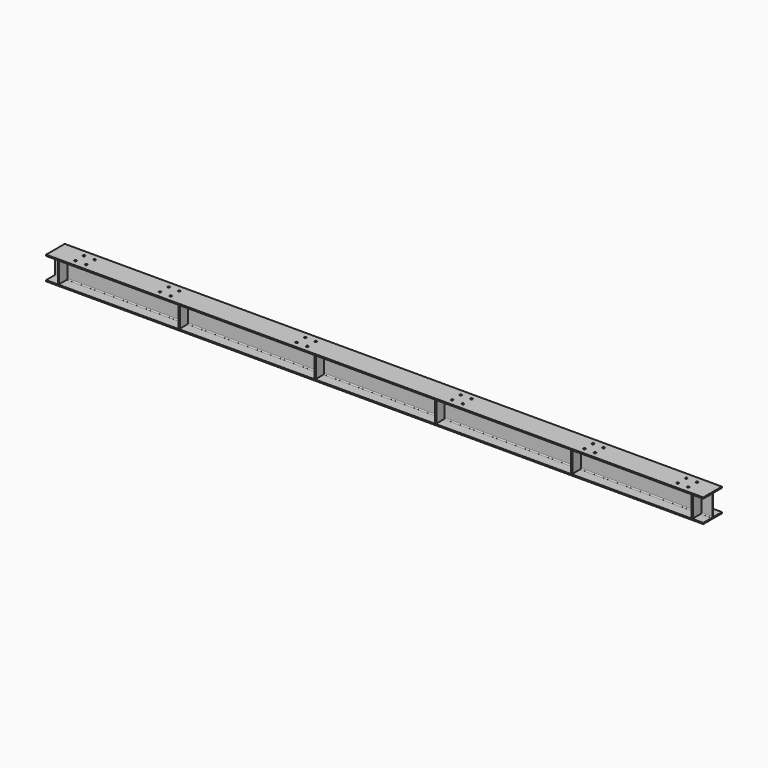
from build123d import *

# Parameters (mm, degrees)
F1_DEPTH = 4292.6
F2_W     = 19.05
F2_H     = 277.114
F3_DEPTH = 139.7
F5_D     = 28.575
F5_DEPTH = 50.8


with BuildPart() as f1:
    # F0 (on Right) → F1 (new body, symmetric)
    with BuildSketch(Plane.YZ):
        with BuildLine():
            Line((152.4, 153.924), (-152.4, 153.924))
            Line((-152.4, 153.924), (-152.4, 138.557))
            Line((-152.4, 138.557), (-17.653, 138.557))
            ThreePointArc((-17.653, 138.557), (-8.672744, 134.837256), (-4.953, 125.857))
            Line((-4.953, 125.857), (-4.953, -125.857))
            ThreePointArc((-4.953, -125.857), (-8.672744, -134.837256), (-17.653, -138.557))
            Line((-17.653, -138.557), (-152.4, -138.557))
            Line((-152.4, -138.557), (-152.4, -153.924))
            Line((-152.4, -153.924), (-4.953, -153.924))
            Line((-4.953, -153.924), (4.953, -153.924))
            Line((4.953, -153.924), (152.4, -153.924))
            Line((152.4, -153.924), (152.4, -138.557))
            Line((152.4, -138.557), (17.653, -138.557))
            ThreePointArc((17.653, -138.557), (8.672744, -134.837256), (4.953, -125.857))
            Line((4.953, -125.857), (4.953, 125.857))
            ThreePointArc((4.953, 125.857), (8.672744, 134.837256), (17.653, 138.557))
            Line((17.653, 138.557), (152.4, 138.557))
            Line((152.4, 138.557), (152.4, 153.924))
        make_face()
    extrude(amount=F1_DEPTH, both=True)

    # F2 (on Front) → F3 (join, symmetric)
    with BuildSketch(Plane.XZ):
        with Locations((-4140.327, 0)):
            Rectangle(F2_W, F2_H)
        with Locations((-2565.527, 0)):
            Rectangle(F2_W, F2_H)
        with Locations((-787.527, 0)):
            Rectangle(F2_W, F2_H)
        with Locations((787.273, 0)):
            Rectangle(F2_W, F2_H)
        with Locations((2565.273, 0)):
            Rectangle(F2_W, F2_H)
        with Locations((4140.073, 0)):
            Rectangle(F2_W, F2_H)
    extrude(amount=F3_DEPTH, both=True)

    # F5
    with Locations(Plane.XY.offset(153.924)):
        with Locations((-3975.1, 69.85), (-3835.4, 69.85), (-3835.4, -69.85), (-3975.1, -69.85), (-2870.2, 69.85), (-2730.5, 69.85), (-2870.2, -69.85), (-2730.5, -69.85), (-1085.85, 69.85), (-946.15, 69.85), (-1085.85, -69.85), (-946.15, -69.85), (946.15, 69.85), (1085.85, 69.85), (946.15, -69.85), (1085.85, -69.85), (2673.35, 69.85), (2813.05, 69.85), (2673.35, -69.85), (2813.05, -69.85), (3892.55, 69.85), (4032.25, 69.85), (3892.55, -69.85), (4032.25, -69.85), (4032.25, 69.85)):
            Hole(F5_D / 2, depth=F5_DEPTH)


solid = f1.part
